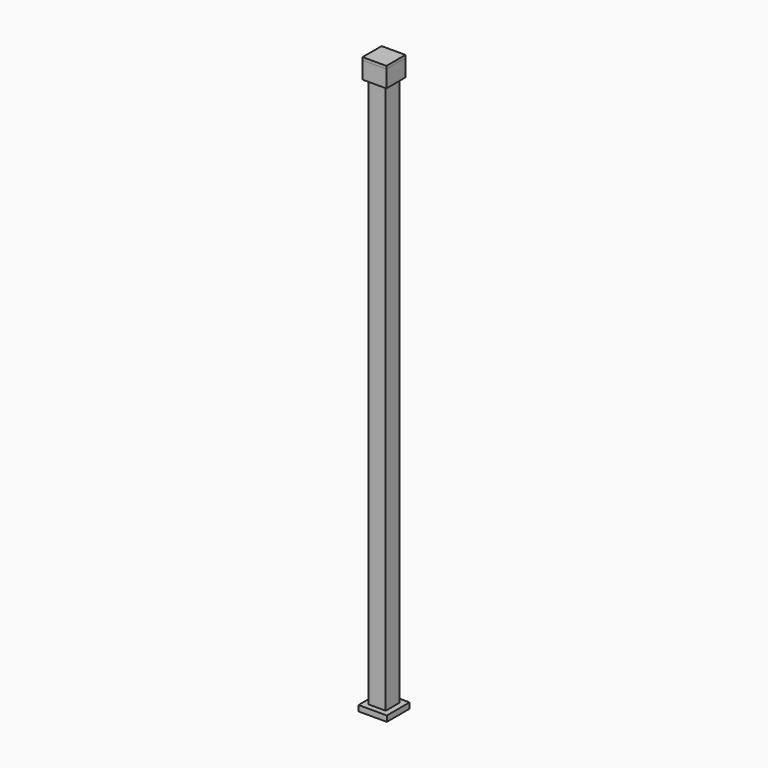
from build123d import *

# Parameters (mm, degrees)
F0_W          = 30
F0_H          = 1000
F1_DEPTH      = 15
F1_DEPTH_BACK = 15
F2_DEPTH      = 25
F2_DEPTH_BACK = 25
F3_W          = 20
F3_H          = 20
F4_DEPTH      = 1000
F5_W          = 42
F5_H          = 42
F5_W_2        = 31
F5_H_2        = 31
F6_DEPTH      = 30
F7_W          = 42
F7_H          = 42
F8_DEPTH      = 5


with BuildPart() as f1:
    # F0 (on Right) → F1 (new body, two sides)
    with BuildSketch(Plane.YZ) as f1_sk:
        with Locations((50, 510)):
            Rectangle(F0_W, F0_H)
    extrude(amount=F1_DEPTH)
    extrude(f1_sk.sketch, amount=-F1_DEPTH_BACK)

    # F0 (on Right) → F2 (join, two sides)
    with BuildSketch(Plane.YZ) as f2_sk:
        Polygon((65, 10), (35, 10), (25, 10), (25, 0), (75, 0), (75, 10), align=None)
    extrude(amount=F2_DEPTH)
    extrude(f2_sk.sketch, amount=-F2_DEPTH_BACK)

    # F3 (on face) → F4 (cut)
    with BuildSketch(Plane.XY.offset(1010)):
        with Locations((0, 50)):
            Rectangle(F3_W, F3_H)
    extrude(amount=-F4_DEPTH, mode=Mode.SUBTRACT)


with BuildPart() as f6:
    # F5 (on face) → F6 (new body)
    with BuildSketch(Plane.XY.offset(1010)):
        with Locations((0, 50)):
            Rectangle(F5_W, F5_H)
        with Locations((0, 50)):
            Rectangle(F5_W_2, F5_H_2, mode=Mode.SUBTRACT)
    extrude(amount=-F6_DEPTH)


with BuildPart() as f8:
    # F7 (on face) → F8 (new body)
    with BuildSketch(Plane.XY.offset(1010)):
        with Locations((0, 50)):
            Rectangle(F7_W, F7_H)
    extrude(amount=F8_DEPTH)


solid = Compound([f1.part, f6.part, f8.part])
